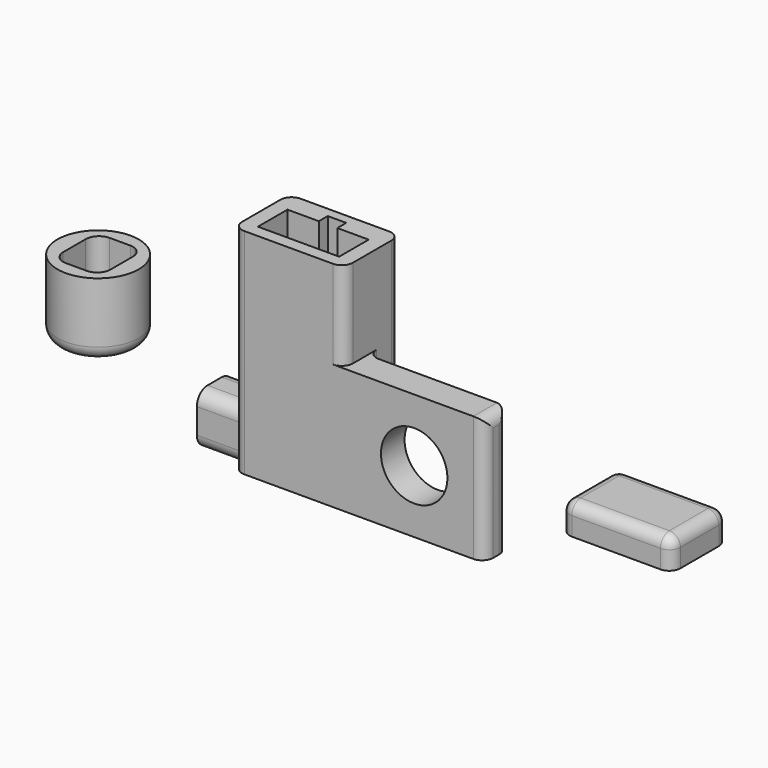
from build123d import *

# Parameters (mm, degrees)
F1_DEPTH  = 22
F0_W      = 9.5
F0_H      = 3.5
F2_DEPTH  = 12
F0_W_2    = 19
F0_H_2    = 4
F3_DEPTH  = 10
F3_FACE_W = 9.5
F3_FACE_H = 3.5
F4_DEPTH  = 7
F5_R      = 4.5
F6_DEPTH  = 25
F0_W_3    = 5.865
F0_H_3    = 6
F7_DEPTH  = 7
F8_R      = 1.5
F9_R      = 1.8
F10_R     = 2.5
F11_DEPTH = 8.7
F12_R     = 5.5
F12_W     = 6.4
F12_H     = 7.4
F13_DEPTH = 10
F14_DEPTH = 0.6
F15_R     = 1.8
F17_DEPTH = 4
F18_R     = 1.5


with BuildPart() as f1:
    # F0 (on Top) → F1 (new body)
    with BuildSketch(Plane.XY):
        Polygon((-7.5, -4.178675), (7.5, -4.178675), (7.5, -0.178675), (7.5, 5.321325), (-7.5, 5.321325), (-7.5, 3), (-7.5, -3), align=None)
        Polygon((5.5, 2.5), (5.5, -2.5), (-5.5, -2.5), (-5.5, 2.5), (-1.25, 2.5), (-1.25, 4.012365), (1.25, 4.012365), (1.25, 2.5), align=None, mode=Mode.SUBTRACT)
    extrude(amount=F1_DEPTH)

    # F0 (on Top) → F2 (join)
    with BuildSketch(Plane.XY):
        Polygon((-5.5, -2.5), (5.5, -2.5), (5.5, 2.5), (1.25, 2.5), (1.25, 4.012365), (-1.25, 4.012365), (-1.25, 2.5), (-5.5, 2.5), align=None)
        Rectangle(F0_W, F0_H, mode=Mode.SUBTRACT)
    extrude(amount=F2_DEPTH)

    # F0 (on Top) → F3 (join)
    with BuildSketch(Plane.XY):
        with Locations((17, -2.178675)):
            Rectangle(F0_W_2, F0_H_2)
    extrude(amount=F3_DEPTH)

    # F3_face (on face) → F4 (join)
    with BuildSketch(Plane(origin=(6.974359, -0.454335, 0), x_dir=(1, 0, 0), z_dir=(0, 0, -1))):
        Polygon((19.525641, 3.72434), (-14.474359, 3.72434), (-14.474359, -5.77566), (0.525641, -5.77566), (0.525641, -0.27566), (19.525641, -0.27566), align=None)
        with Locations((-6.974359, -0.454335)):
            Rectangle(F3_FACE_W, F3_FACE_H, mode=Mode.SUBTRACT)
    extrude(amount=F4_DEPTH)

    # F5 (on face) → F6 (cut)
    with BuildSketch(Plane.XZ.offset(4.178675)):
        with Locations((17, 1.5)):
            Circle(F5_R)
    extrude(amount=-F6_DEPTH, mode=Mode.SUBTRACT)

    # F0 (on Top) → F7 (join)
    with BuildSketch(Plane.XY):
        with Locations((-10.4325, 0)):
            Rectangle(F0_W_3, F0_H_3)
    extrude(amount=-F7_DEPTH)

    # F8
    f8_edges = [f1.edges().sort_by_distance(p)[0] for p in [
        (-7.5, 5.321325, 7.5),
        (7.5, 5.321325, 7.5),
        (7.5, -4.178675, 16),
        (-7.5, -4.178675, 7.5),
        (26.5, -4.178675, 1.5),
        (26.5, -0.178675, 1.5),
        (7.5, -0.178675, 1.5),
        (26.5, -2.178675, 10),
    ]]
    fillet(f8_edges, radius=F8_R)

    # F9
    f9_edges = [f1.edges().sort_by_distance(p)[0] for p in [
        (-10.4325, 3, -7),
        (-10.41509, -3, -7),
        (-10.41509, -3, 0),
        (-10.4325, 3, 0),
    ]]
    fillet(f9_edges, radius=F9_R)

    # F10 (on face) → F11 (cut)
    with BuildSketch(Plane(origin=(-13.365, 0, 0), x_dir=(0, -1, 0), z_dir=(-1, 0, 0))):
        with Locations((0, -3.5)):
            Circle(F10_R)
    extrude(amount=-F11_DEPTH, mode=Mode.SUBTRACT)


with BuildPart() as f13:
    # F12 (on Top) → F13 (new body)
    with BuildSketch(Plane.XY):
        with Locations((-29.135002, 0)):
            Circle(F12_R)
        with Locations((-29.135002, 0)):
            Rectangle(F12_W, F12_H, mode=Mode.SUBTRACT)
    extrude(amount=F13_DEPTH)

    # F12 (on Top) → F14 (join)
    with BuildSketch(Plane.XY):
        with Locations((-29.135002, 0)):
            Rectangle(F12_W, F12_H)
    extrude(amount=F14_DEPTH)

    # F15
    f15_edges = [f13.edges().sort_by_distance(p)[0] for p in [
        (-25.935002, 3.7, 5.3),
        (-32.335002, 3.7, 5.3),
        (-34.635002, 0, 0),
        (-25.935002, -3.7, 5.3),
        (-32.335002, -3.7, 5.3),
    ]]
    fillet(f15_edges, radius=F15_R)


with BuildPart() as f17:
    # F16 (on Top) → F17 (new body)
    with BuildSketch(Plane.XY):
        Polygon((36.847512, -4.18044), (51.847512, -4.18044), (51.847512, -0.18044), (51.847512, 5.31956), (36.847512, 5.31956), (36.847512, 2.998235), (36.847512, -3.001765), align=None)
    extrude(amount=F17_DEPTH)

    # F18
    f18_edges = [f17.edges().sort_by_distance(p)[0] for p in [
        (51.847512, -4.18044, 2),
        (36.847512, -4.18044, 2),
        (36.847512, 5.31956, 2),
        (51.847512, 5.31956, 2),
        (36.847512, 0.56956, 4),
        (44.347512, -4.18044, 4),
        (51.847512, 0.56956, 4),
        (44.347512, 5.31956, 4),
    ]]
    fillet(f18_edges, radius=F18_R)


solid = Compound([f1.part, f13.part, f17.part])
